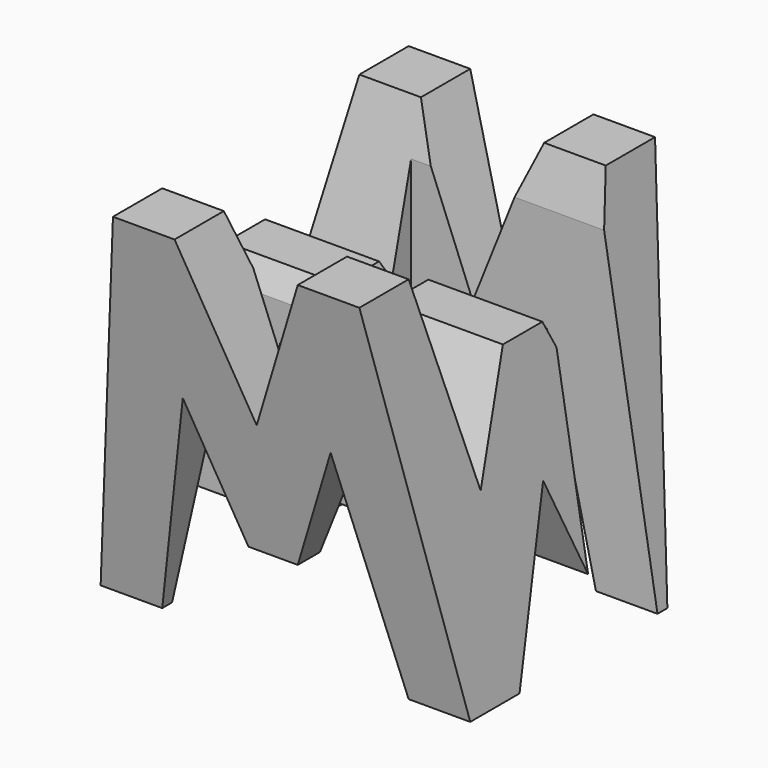
from build123d import *

# Parameters (mm, degrees)
F0_W      = 38.1
F0_H      = 38.1
F1_DEPTH  = 38.1
F6_DEPTH  = 38.1
F8_DEPTH  = 38.1
F9_W      = 25.4
F9_H      = 7.62
F10_DEPTH = 38.1
F11_W     = 25.4
F11_H     = 7.62
F12_DEPTH = 38.1


with BuildPart() as f1:
    # F0 (on Front) → F1 (new body)
    with BuildSketch(Plane.XZ):
        with Locations((19.05, 19.05)):
            Rectangle(F0_W, F0_H)
    extrude(amount=F1_DEPTH)

    # F5 (on offset) → F6 (cut)
    with BuildSketch(Plane.YZ.offset(38.1)):
        Polygon((-31.75, 0), (-38.1, 38.1), (-38.1, 0), align=None)
        Polygon((-19.05, 15.875), (-25.4, 0), (-12.7, 0), align=None)
        Polygon((0, 0), (0, 38.1), (-6.35, 0), align=None)
        Polygon((-6.35, 38.1), (-31.75, 38.1), (-26.67, 17.949333), (-21.59, 28.575), (-16.51, 28.575), (-11.43, 17.78), align=None)
    extrude(amount=-F6_DEPTH, mode=Mode.SUBTRACT)

    # F7 (on offset) → F8 (cut)
    with BuildSketch(Plane.XZ.offset(38.1)):
        Polygon((25.4, 38.1), (12.7, 38.1), (19.05, 22.225), align=None)
        Polygon((6.35, 38.1), (0, 38.1), (0, 0), align=None)
        Polygon((11.43, 22.225), (6.35, 0), (31.75, 0), (26.67, 22.225), (21.59, 9.525), (16.51, 9.525), align=None)
        Polygon((38.1, 38.1), (31.75, 38.1), (38.1, 0), align=None)
    extrude(amount=-F8_DEPTH, mode=Mode.SUBTRACT)

    # F9 (on Top) → F10 (cut)
    with BuildSketch(Plane.XY):
        with Locations((12.7, -26.67)):
            Rectangle(F9_W, F9_H)
        with Locations((25.4, -11.43)):
            Rectangle(F9_W, F9_H)
    extrude(amount=-F10_DEPTH, mode=Mode.SUBTRACT)

    # F11 (on offset) → F12 (cut)
    with BuildSketch(Plane.XY.offset(38.1)):
        with Locations((12.7, -26.67)):
            Rectangle(F11_W, F11_H)
        with Locations((25.4, -11.43)):
            Rectangle(F11_W, F11_H)
    extrude(amount=-F12_DEPTH, mode=Mode.SUBTRACT)


solid = f1.part
